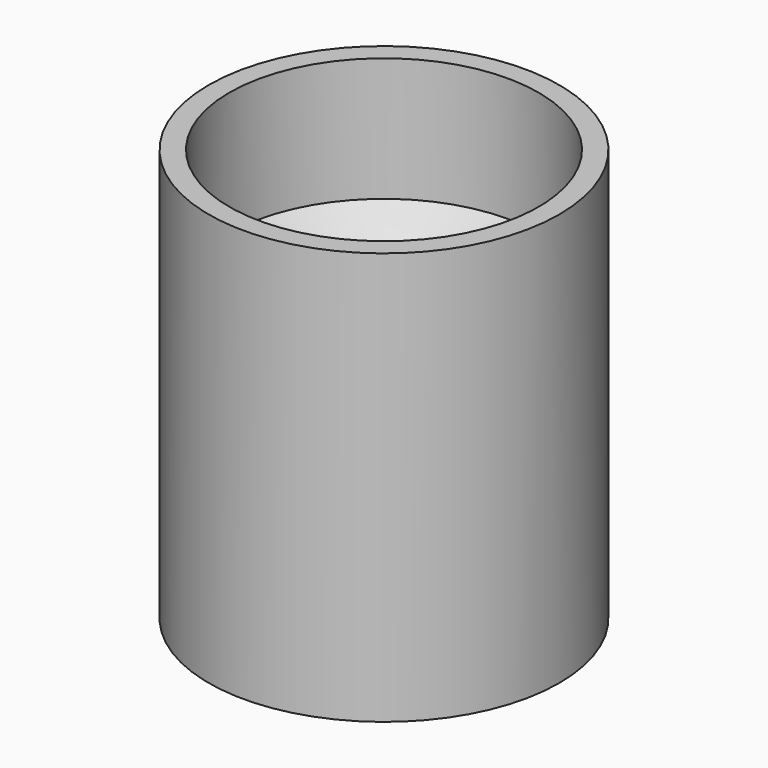
from build123d import *

# Parameters (mm, degrees)
F0_R     = 8.5
F1_DEPTH = 20
F3_D     = 10
F4_D     = 15
F4_DEPTH = 6
F4_TIP   = 4.5064546427
F6_D     = 1
F6_DEPTH = 10
F6_TIP   = 0.3004303095


with BuildPart() as f1:
    # F0 (on Top) → F1 (new body)
    with BuildSketch(Plane.XY):
        Circle(F0_R)
    extrude(amount=F1_DEPTH)

    # F3 (through all)
    with Locations(Plane.XY.offset(20)):
        with Locations((0, 0)):
            Hole(F3_D / 2)

    # F4
    with Locations(Plane.XY.offset(20)):
        with Locations((0, 0)):
            Hole(F4_D / 2, depth=F4_DEPTH)
            with Locations((0, 0, -(F4_DEPTH + F4_TIP / 2))):  # 118° drill point
                Cone(0, F4_D / 2, F4_TIP, mode=Mode.SUBTRACT)

    # F6
    with Locations(Plane(origin=(0, 0, 0), x_dir=(1, 0, 0), z_dir=(0, 0, -1))):
        with Locations((-6.499937755, -0.0284461158), (6.499937755, -0.0284461158)):
            Hole(F6_D / 2, depth=F6_DEPTH)
            with Locations((0, 0, -(F6_DEPTH + F6_TIP / 2))):  # 118° drill point
                Cone(0, F6_D / 2, F6_TIP, mode=Mode.SUBTRACT)


solid = f1.part
